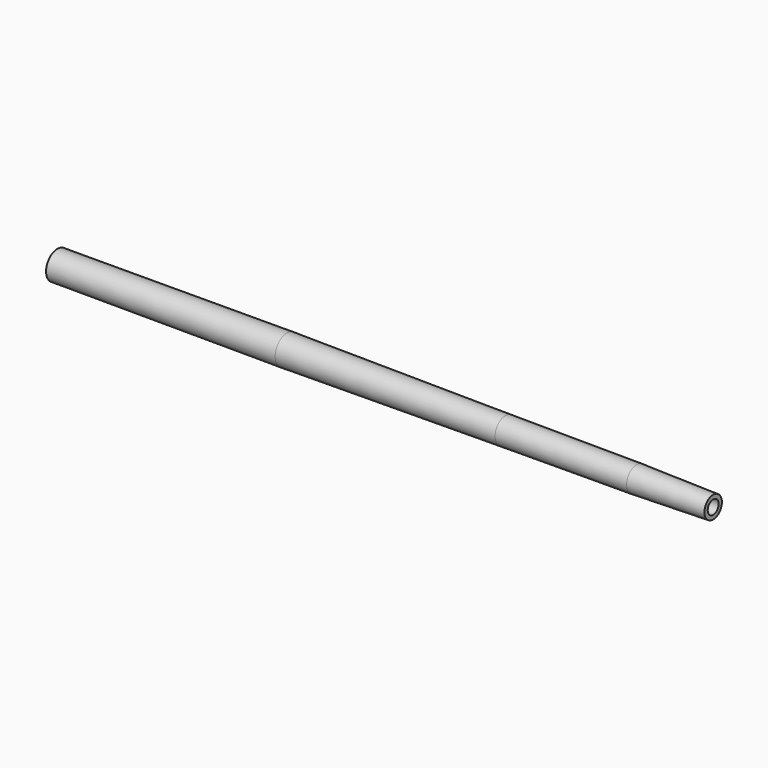
from build123d import *


with BuildPart() as part:
    # Sketch → Revolution (revolve)
    with BuildSketch(Plane.XZ):
        Polygon((210, 9.5), (0, 9.5), (0, 13), (210, 13.5), (410, 12), (530, 11.5), (600, 10), (600, 6.25), (530, 6), (410, 7), align=None)
    revolve(axis=Axis((0, 0, 0), (1, 0, 0)))


solid = part.part
